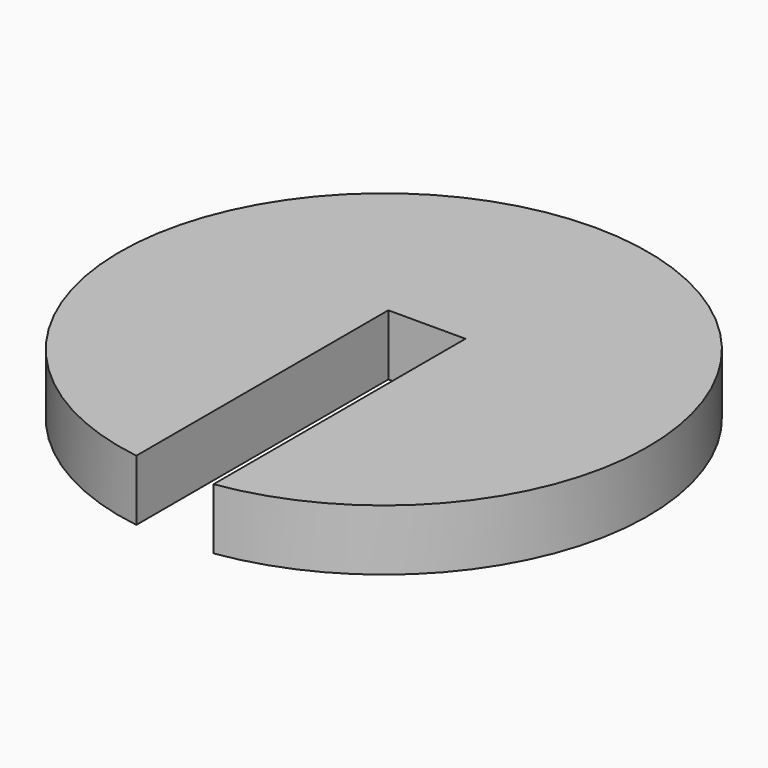
from build123d import *

# Parameters (mm, degrees)
F0_R     = 82.55
F1_DEPTH = 9.525
F2_W     = 24.13
F2_H     = 99.441
F3_DEPTH = 9.525


with BuildPart() as f1:
    # F0 (on Top) → F1 (new body, symmetric)
    with BuildSketch(Plane.XY):
        Circle(F0_R)
    extrude(amount=F1_DEPTH, both=True)

    # F2 (on Top) → F3 (cut, symmetric)
    with BuildSketch(Plane.XY):
        with Locations((0, -32.900974)):
            Rectangle(F2_W, F2_H)
    extrude(amount=F3_DEPTH, both=True, mode=Mode.SUBTRACT)


solid = f1.part
